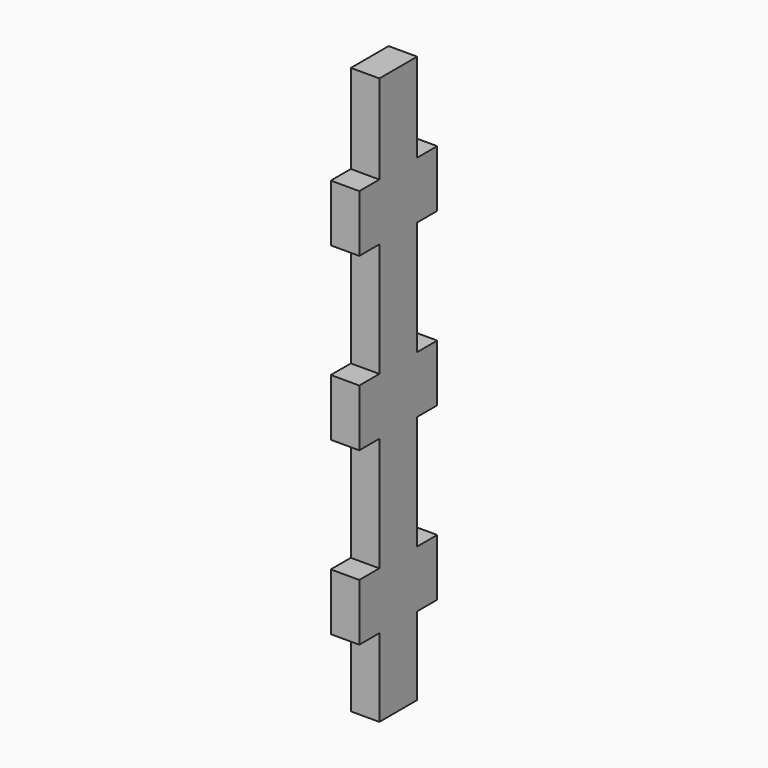
from build123d import *

# Parameters (mm, degrees)
F1_DEPTH = 6.35


with BuildPart() as f1:
    # F0 (on Right) → F1 (new body)
    with BuildSketch(Plane.YZ):
        Polygon((-33.538011, 64.264348), (-44.053611, 64.264348), (-44.053611, 44.452348), (-49.641611, 44.452348), (-49.641611, 31.752348), (-44.053611, 31.752348), (-44.053611, 6.352348), (-49.641611, 6.352348), (-49.641611, -6.347652), (-44.053611, -6.347652), (-44.053611, -31.747652), (-49.641611, -31.747652), (-49.641611, -44.447652), (-44.053611, -44.447652), (-44.053611, -61.846652), (-33.538011, -61.846652), (-33.538011, -44.447652), (-27.950011, -44.447652), (-27.950011, -31.747652), (-33.538011, -31.747652), (-33.538011, -6.347652), (-27.950011, -6.347652), (-27.950011, 6.352348), (-33.538011, 6.352348), (-33.538011, 31.752348), (-27.950011, 31.752348), (-27.950011, 44.452348), (-33.538011, 44.452348), align=None)
    extrude(amount=F1_DEPTH)


solid = f1.part
